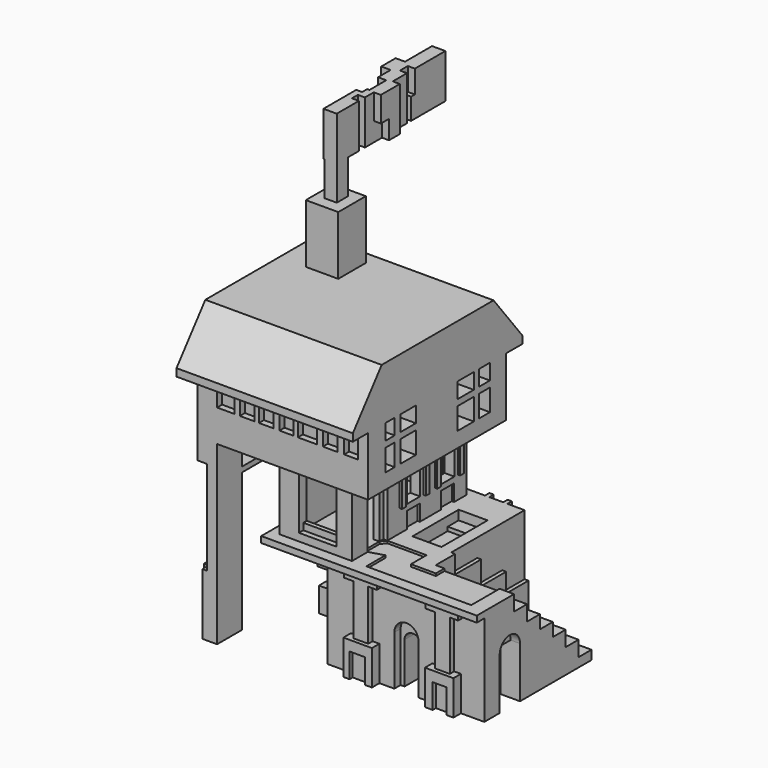
from build123d import *

# Parameters (mm, degrees)
F0_W       = 49.6544484049
F0_H       = 31.5617341548
F1_DEPTH   = 50.8
F3_DEPTH   = 25.4
F4_W       = 8.2422364503
F4_H       = 16.4844719693
F5_DEPTH   = 6.35
F6_W       = 4.0206033736
F6_H       = 14.2731410451
F7_DEPTH   = 44.451
F8_W       = 9.8504768685
F8_H       = 16.8865323067
F9_DEPTH   = 6.35
F10_W      = 4.498289439
F10_H      = 0.8041206747
F10_H_2    = 1.5077261487
F10_H_3    = 1.0051508434
F10_H_4    = 1.2061800808
F10_H_5    = 1.0051503778
F11_DEPTH  = 1.778
F12_DEPTH  = 2.286
F13_W      = 4.623694811
F13_H      = 9.0463566594
F14_DEPTH  = 6.35
F15_W      = 4.623694811
F15_H      = 2.0103026181
F15_H_2    = 1.8092714017
F16_DEPTH  = 2.54
F17_W      = 4.8514
F17_H      = 2.0103007555
F17_W_2    = 2.9986605556
F17_W_3    = 2.7925394444
F17_H_2    = 2.0103026181
F17_W_4    = 6.7549394444
F17_W_5    = 15.6923516317
F17_H_3    = 16.2889307812
F17_W_6    = 3.1051089239
F17_H_4    = 11.2522
F17_W_7    = 2.1844
F17_W_8    = 2.2098
F17_H_5    = 2.2113323212
F17_W_9    = 2.6860910761
F17_H_6    = 16.0879010782
F17_W_10   = 7.0675089239
F18_DEPTH  = 3.048
F20_DEPTH  = 1.27
F21_W      = 5.0257537514
F21_H      = 7.9406909645
F22_DEPTH  = 1.27
F23_W      = 4.422660917
F23_H      = 7.9406909645
F24_DEPTH  = 1.27
F25_W      = 3.2164826989
F25_H      = 2.0103007555
F25_W_2    = 4.4079935178
F25_W_3    = 15.8813819289
F25_H_2    = 6.6339960322
F25_W_4    = 3.618542105
F25_H_3    = 3.2164826989
F25_W_5    = 25.5780481543
F25_H_4    = 11.7602637038
F25_H_5    = 7.9406909645
F25_W_6    = 2.2113313898
F25_W_7    = 2.2113316227
F25_W_8    = 2.2113323212
F26_DEPTH  = 19.05
F27_W      = 14.3532268703
F27_H      = 21.6107424349
F28_DEPTH  = 28.9034002506
F29_W      = 12.5439558178
F29_H      = 7.9406909645
F30_DEPTH  = 31.1147325718
F31_W      = 2.3483865649
F31_H      = 21.6107424349
F32_DEPTH  = 28.9034002506
F33_W      = 7.8232
F33_H      = 16.0824116319
F34_DEPTH  = 2.54
F35_W      = 5.2832
F35_H      = 13.3690908551
F36_DEPTH  = 12.7
F38_DEPTH  = 1.27
F39_W      = 17.1194828197
F39_H      = 3.175
F40_DEPTH  = 25.4
F41_W      = 7.9231392592
F41_H      = 16.7392548174
F41_W_2    = 5.3848
F41_H_2    = 9.5307342708
F41_W_3    = 5.3969230503
F42_DEPTH  = 1.27
F43_DEPTH  = 4.572
F44_DEPTH  = 4.572
F45_W      = 1.4986
F45_H      = 1.8372498453
F45_H_2    = 2.9281172901
F45_H_3    = 2.4688038975
F45_H_4    = 2.2965632379
F45_H_5    = 2.0669065416
F45_H_6    = 2.7558747679
F45_H_7    = 2.4113897234
F45_H_8    = 2.4113915861
F45_H_9    = 2.6984605938
F45_H_10   = 1.9520781934
F45_H_11   = 2.813288942
F46_DEPTH  = 0.762
F47_W      = 5.3848
F47_H      = 2.1817311645
F47_W_2    = 5.3969230503
F47_W_3    = 5.2820940036
F47_H_2    = 5.2564423531
F47_H_3    = 5.3712707013
F47_W_4    = 5.5117495358
F47_H_4    = 15.3869669884
F48_DEPTH  = 0.762
F49_W      = 4.7153461103
F49_H      = 16.7392548174
F50_DEPTH  = 4.572
F51_W      = 23.4694828197
F51_H      = 55.8056919492
F52_DEPTH  = 19.05
F53_W      = 55.8056919492
F53_H      = 19.05
F54_DEPTH  = 12.7
F55_W      = 55.8056919492
F55_H      = 19.05
F56_DEPTH  = 19.05
F57_W      = 68.6690900475
F57_H      = 2.4308431178
F58_DEPTH  = 57.15
F59_W      = 10.5141848326
F59_H      = 11.1713211518
F60_DEPTH  = 19.05
F61_W      = 6.1911270022
F61_H      = 5.0784182519
F61_W_2    = 3.8099233061
F61_H_2    = 7.0634940997
F61_W_3    = 6.548307254
F61_W_4    = 4.5242845081
F62_DEPTH  = 57.151
F63_W      = 6.2733085334
F63_H      = 10.0599788129
F64_DEPTH  = 57.15
F65_W      = 6.2733085334
F65_H      = 1.42871961
F65_H_2    = 1.6668438911
F66_DEPTH  = 44.45
F67_W      = 6.2733085334
F67_H      = 5.9948527038
F68_DEPTH  = 44.45
F69_W      = 4.5242840424
F69_H      = 5.9530101717
F69_W_2    = 4.7624055296
F69_W_3    = 4.7624045983
F69_W_4    = 4.5242845081
F69_W_5    = 6.1911263037
F69_W_6    = 4.762403667
F69_W_7    = 5.7148858905
F70_DEPTH  = 2.032
F71_W      = 12.1441322844
F71_H      = 16.9065352529
F72_DEPTH  = 6.35
F73_W      = 12.1441322844
F73_H      = 2.1430850029
F74_DEPTH  = 1.778
F76_DEPTH  = 0.762
F77_W      = 12.3822530732
F77_H      = 18.3352567255
F78_DEPTH  = 25.4
F79_W      = 12.3822530732
F79_H      = 1.9049607217
F80_DEPTH  = 0.762
F81_W      = 7.8579680994
F81_H      = 5.2386447787
F81_W_2    = 8.3342082798
F81_W_3    = 7.3817297816
F81_H_2    = 8.8104493916
F82_DEPTH  = 25.4
F83_W      = 7.8579680994
F83_H      = 2.3812055588
F83_W_2    = 7.3817297816
F83_H_2    = 2.1430850029
F83_W_3    = 8.3342082798
F83_H_3    = 3.8099251688
F84_DEPTH  = 0.762
F85_W      = 1.9049616531
F85_H      = 7.0634940997
F85_W_2    = 2.1430840716
F86_DEPTH  = 6.35
F87_W      = 7.6198480092
F87_H      = 7.0634940997
F88_DEPTH  = 2.032
F89_W      = 1.4287228696
F89_H      = 4.2861625552
F89_W_2    = 1.1905999854
F89_H_2    = 4.7624073923
F90_DEPTH  = 2.032
F91_W      = 1.6668438911
F91_H      = 5.238648504
F92_DEPTH  = 2.286
F93_W      = 1.4700089008
F93_H      = 5.4767690599
F94_DEPTH  = 2.286
F95_W      = 5.0299894065
F95_H      = 30.4793948308
F96_DEPTH  = 3.048
F97_W      = 2.5149947032
F97_H      = 19.9257283583
F98_DEPTH  = 1.524
F99_W      = 4.0206033736
F99_H      = 4.5231785625
F100_DEPTH = 25.4
F101_W     = 43.9970307052
F101_H     = 14.2971799493
F102_DEPTH = 4.318
F103_W     = 2.43413914
F103_H     = 14.2971799493
F103_W_2   = 1.6654636711
F103_H_2   = 6.90305233
F104_DEPTH = 2.286
F105_W     = 4.3558273464
F105_H     = 6.1343833804
F106_DEPTH = 2.286
F107_W     = 1.9088529013
F107_H     = 2.0536798984
F108_DEPTH = 16.002
F109_W     = 5.8340346441
F109_H     = 14.2971799493
F110_DEPTH = 3.048
F111_W     = 9.3818865716
F111_H     = 4.2216335423
F111_H_2   = 4.422663711
F112_DEPTH = 3.048
F113_W     = 9.3818865716
F113_H     = 10.0515079685
F114_DEPTH = 4.318
F116_DEPTH = 3.048


with BuildPart() as f1:
    # F0 (on Right) → F1 (new body)
    with BuildSketch(Plane.YZ):
        with Locations((-5.663943477, 7.8401761129)):
            Rectangle(F0_W, F0_H)
    extrude(amount=F1_DEPTH)

    # F2 (on face) → F3 (cut)
    with BuildSketch(Plane.YZ.offset(50.8)):
        Polygon((19.1632807255, 23.6210431904), (-18.4293542989, 23.6210431904), (-18.4293542989, 18.6287942484), (-13.2025708444, 18.6287942484), (-13.2025708444, 13.6365453064), (-7.97578739, 13.6365453064), (-7.97578739, 9.3143971242), (-2.7490039356, 9.3143971242), (-2.7490039356, 4.992248942), (2.4777795188, 4.992248942), (2.4777795188, 0), (7.7045629732, 0), (7.7045629732, -4.992248942), (12.9313464276, -4.992248942), (12.9313464276, -7.9406909645), (19.1632807255, -7.9406909645), align=None)
    extrude(amount=-F3_DEPTH, mode=Mode.SUBTRACT)

    # F4 (on face) → F5 (cut)
    with BuildSketch(Plane.YZ.offset(50.8)):
        with Locations((-20.1381137595, 0.3015450202)):
            Rectangle(F4_W, F4_H)
    extrude(amount=-F5_DEPTH, mode=Mode.SUBTRACT)

    # F6 (on face) → F7 (cut, through all)
    with BuildSketch(Plane.YZ.offset(44.45)):
        with Locations((-20.0375998393, -0.8041204419)):
            Rectangle(F6_W, F6_H)
    extrude(amount=-F7_DEPTH, mode=Mode.SUBTRACT)

    # F8 (on face) → F9 (cut)
    with BuildSketch(Plane(origin=(0, 0, 0), x_dir=(0, -1, 0), z_dir=(-1, 0, 0))):
        with Locations((19.8668870144, 0.5025751889)):
            Rectangle(F8_W, F8_H)
    extrude(amount=-F9_DEPTH, mode=Mode.SUBTRACT)

    # F10 (on face) → F11 (join)
    with BuildSketch(Plane(origin=(0, 19.1632807255, 0), x_dir=(-1, 0, 0), z_dir=(0, 1, 0))):
        Polygon((-17.198289439, 23.6210431904), (-18.595289439, 23.6210431904), (-18.595289439, -7.9406909645), (-17.198289439, -7.9406909645), (-17.198289439, -1.5077261487), (-17.198289439, 0), (-17.198289439, 4.9252388999), (-17.198289439, 5.9303897433), (-17.198289439, 9.7499629483), (-17.198289439, 10.956143029), (-17.198289439, 14.5746869966), (-17.198289439, 15.5798373744), (-17.198289439, 19.1983804107), (-17.198289439, 20.0025010854), align=None)
        with Locations((-14.9491447195, 19.600440748)):
            Rectangle(F10_W, F10_H)
        Polygon((-12.7, 23.6210431904), (-12.7, 20.0025010854), (-12.7, 19.1983804107), (-12.7, 15.5798373744), (-12.7, 14.5746869966), (-12.7, 10.956143029), (-12.7, 9.7499629483), (-12.7, 5.9303897433), (-12.7, 4.9252388999), (-12.7, 0), (-12.7, -1.5077261487), (-12.7, -7.9406909645), (-11.303, -7.9406909645), (-11.303, 23.6210431904), align=None)
        with Locations((-14.9491447195, -0.7538630744)):
            Rectangle(F10_W, F10_H_2)
        with Locations((-14.9491447195, 5.4278143216)):
            Rectangle(F10_W, F10_H_3)
        with Locations((-14.9491447195, 10.3530529886)):
            Rectangle(F10_W, F10_H_4)
        with Locations((-14.9491447195, 15.0772621855)):
            Rectangle(F10_W, F10_H_5)
    extrude(amount=F11_DEPTH)

    # F12 (cut): faces of the model
    f12_faces = [f1.faces().sort_by_distance(p)[0] for p in [
        (14.9491447195, 19.1632807255, 17.3891088925),
        (14.9491447195, 19.1632807255, 12.7654150128),
        (14.9491447195, 19.1632807255, 7.8401763458),
        (14.9491447195, 19.1632807255, 2.4626194499),
        (14.9491447195, 19.1632807255, -4.7242085566),
    ]]
    extrude(f12_faces, amount=-F12_DEPTH, mode=Mode.SUBTRACT)

    # F13 (on face) → F14 (cut)
    with BuildSketch(Plane(origin=(0, 19.1632807255, 0), x_dir=(-1, 0, 0), z_dir=(0, 1, 0))):
        with Locations((-5.4278138559, 8.0412060488)):
            Rectangle(F13_W, F13_H)
    extrude(amount=-F14_DEPTH, mode=Mode.SUBTRACT)

    # F15 (on face) → F16 (cut)
    with BuildSketch(Plane(origin=(0, 19.1632807255, 0), x_dir=(-1, 0, 0), z_dir=(0, 1, 0))):
        with Locations((-5.4278138559, 13.5695356876)):
            Rectangle(F15_W, F15_H)
        with Locations((-5.4278138559, 2.6133920182)):
            Rectangle(F15_W, F15_H_2)
    extrude(amount=-F16_DEPTH, mode=Mode.SUBTRACT)

    # F17 (on face) → F18 (join)
    with BuildSketch(Plane.XZ.offset(30.4911676794)):
        with Locations((12.1793, 22.6158928126)):
            Rectangle(F17_W, F17_H)
        with Locations((8.2542697222, 22.6158928126)):
            Rectangle(F17_W_2, F17_H)
        with Locations((16.0012697222, 22.6158928126)):
            Rectangle(F17_W_3, F17_H)
        with Locations((12.1793, 20.6055911258)):
            Rectangle(F17_W, F17_H_2)
        with Locations((8.2542697222, 20.6055911258)):
            Rectangle(F17_W_2, F17_H_2)
        with Locations((3.3774697222, 22.6158928126)):
            Rectangle(F17_W_4, F17_H)
        with Locations((16.0012697222, 20.6055911258)):
            Rectangle(F17_W_3, F17_H_2)
        with Locations((25.2437152602, 22.6158928126)):
            Rectangle(F17_W_5, F17_H)
        with Locations((12.1793, 11.4559744261)):
            Rectangle(F17_W, F17_H_3)
        with Locations((34.642445538, 22.6158928126)):
            Rectangle(F17_W_6, F17_H)
        with Locations((12.1793, -2.3145909645)):
            Rectangle(F17_W, F17_H_4)
        with Locations((8.6614, -2.3145909645)):
            Rectangle(F17_W_7, F17_H_4)
        with Locations((15.7099, -2.3145909645)):
            Rectangle(F17_W_8, F17_H_4)
        with Locations((34.642445538, 20.5050762743)):
            Rectangle(F17_W_6, F17_H_5)
        with Locations((38.6207, 22.6158928126)):
            Rectangle(F17_W, F17_H)
        with Locations((38.6207, 20.5050762743)):
            Rectangle(F17_W, F17_H_5)
        with Locations((42.389445538, 22.6158928126)):
            Rectangle(F17_W_9, F17_H)
        with Locations((38.6207, 11.3554595746)):
            Rectangle(F17_W, F17_H_6)
        with Locations((42.389445538, 20.5050762743)):
            Rectangle(F17_W_9, F17_H_5)
        with Locations((47.266245538, 22.6158928126)):
            Rectangle(F17_W_10, F17_H)
        with Locations((38.6207, -2.3145909645)):
            Rectangle(F17_W, F17_H_4)
        with Locations((35.0901, -2.3145909645)):
            Rectangle(F17_W_8, F17_H_4)
        with Locations((42.1386, -2.3145909645)):
            Rectangle(F17_W_7, F17_H_4)
    extrude(amount=F18_DEPTH)

    # F19 (on face) → F20 (cut)
    with BuildSketch(Plane.XZ.offset(33.5391676794)):
        Polygon((17.3975394444, 21.6107424349), (6.7549394444, 21.6107424349), (6.7549394444, 19.6004398167), (9.7536, 19.6004398167), (9.7536, 3.3115090355), (14.605, 3.3115090355), (14.605, 19.6004398167), (17.3975394444, 19.6004398167), align=None)
        Polygon((43.7324910761, 21.6107424349), (33.0898910761, 21.6107424349), (33.0898910761, 19.3994101137), (36.195, 19.3994101137), (36.195, 3.3115090355), (41.0464, 3.3115090355), (41.0464, 19.3994101137), (43.7324910761, 19.3994101137), align=None)
    extrude(amount=-F20_DEPTH, mode=Mode.SUBTRACT)

    # F21 (on face) → F22 (cut)
    with BuildSketch(Plane.XZ.offset(33.5391676794)):
        with Locations((12.0822377503, -3.9703454822)):
            Rectangle(F21_W, F21_H)
    extrude(amount=-F22_DEPTH, mode=Mode.SUBTRACT)

    # F23 (on face) → F24 (cut)
    with BuildSketch(Plane.XZ.offset(33.5391676794)):
        with Locations((38.7187320739, -3.9703454822)):
            Rectangle(F23_W, F23_H)
    extrude(amount=-F24_DEPTH, mode=Mode.SUBTRACT)

    # F25 (on face) → F26 (join)
    with BuildSketch(Plane(origin=(0, 0, 0), x_dir=(0, -1, 0), z_dir=(-1, 0, 0))):
        with Locations((-13.1470458582, 22.6158928126)):
            Rectangle(F25_W, F25_H)
        with Locations((-16.9592839666, 22.6158928126)):
            Rectangle(F25_W_2, F25_H)
        with Locations((-3.5981135443, 22.6158928126)):
            Rectangle(F25_W_3, F25_H)
        with Locations((-13.1470458582, 18.2937444188)):
            Rectangle(F25_W, F25_H_2)
        with Locations((6.1518484727, 22.6158928126)):
            Rectangle(F25_W_4, F25_H)
        with Locations((-13.1470458582, 13.3685050532)):
            Rectangle(F25_W, F25_H_3)
        with Locations((-3.5981135443, 13.3685050532)):
            Rectangle(F25_W_3, F25_H_3)
        with Locations((6.1518484727, 18.2937444188)):
            Rectangle(F25_W_4, F25_H_2)
        with Locations((20.7501436023, 22.6158928126)):
            Rectangle(F25_W_5, F25_H)
        with Locations((-13.1470458582, 5.8801318519)):
            Rectangle(F25_W, F25_H_4)
        with Locations((6.1518484727, 13.3685050532)):
            Rectangle(F25_W_4, F25_H_3)
        with Locations((-13.1470458582, -3.9703454822)):
            Rectangle(F25_W, F25_H_5)
        with Locations((-15.8609529026, -3.9703454822)):
            Rectangle(F25_W_6, F25_H_5)
        with Locations((-10.4331388138, -3.9703454822)):
            Rectangle(F25_W_6, F25_H_5)
        with Locations((6.1518484727, 5.8801318519)):
            Rectangle(F25_W_4, F25_H_4)
        with Locations((6.1518484727, -3.9703454822)):
            Rectangle(F25_W_4, F25_H_5)
        with Locations((3.2369116088, -3.9703454822)):
            Rectangle(F25_W_7, F25_H_5)
        with Locations((9.0667856857, -3.9703454822)):
            Rectangle(F25_W_8, F25_H_5)
    extrude(amount=F26_DEPTH)

    # F27 (on face) → F28 (cut, through all)
    with BuildSketch(Plane.XZ.offset(7.9611195251)):
        with Locations((-7.1766134351, 10.8053712174)):
            Rectangle(F27_W, F27_H)
    extrude(amount=-F28_DEPTH, mode=Mode.SUBTRACT)

    # F29 (on face) → F30 (cut, through all)
    with BuildSketch(Plane.XZ.offset(10.1724518463)):
        with Locations((-6.2719779089, -3.9703454822)):
            Rectangle(F29_W, F29_H)
    extrude(amount=-F30_DEPTH, mode=Mode.SUBTRACT)

    # F31 (on face) → F32 (cut, through all)
    with BuildSketch(Plane.XZ.offset(7.9611195251)):
        with Locations((-17.8758067176, 10.8053712174)):
            Rectangle(F31_W, F31_H)
    extrude(amount=-F32_DEPTH, mode=Mode.SUBTRACT)

    # F33 (on face) → F34 (cut)
    with BuildSketch(Plane.XZ.offset(30.4911676794)):
        with Locations((25.5597489711, 0.1005148515)):
            Rectangle(F33_W, F33_H)
        with BuildLine():
            ThreePointArc((29.4713489711, 8.1417206675), (25.5597489711, 12.0533206675), (21.6481489711, 8.1417206675))
            Line((21.6481489711, 8.1417206675), (29.4713489711, 8.1417206675))
        make_face()
    extrude(amount=-F34_DEPTH, mode=Mode.SUBTRACT)

    # F35 (on face) → F36 (cut)
    with BuildSketch(Plane.XZ.offset(27.9511676794)):
        with Locations((25.5597489711, -1.2561455369)):
            Rectangle(F35_W, F35_H)
        with BuildLine():
            ThreePointArc((28.2013489711, 5.4283998906), (25.5597489711, 8.0699998906), (22.9181489711, 5.4283998906))
            Line((22.9181489711, 5.4283998906), (28.2013489711, 5.4283998906))
        make_face()
    extrude(amount=-F36_DEPTH, mode=Mode.SUBTRACT)

    # F37 (on face) → F38 (cut)
    with BuildSketch(Plane.YZ.offset(25.4)):
        Polygon((19.1632807255, 23.6210431904), (-10.5776749551, 23.6210431904), (-10.5776749551, 17.7780725062), (0, 17.7780725062), (0, 10.1592000574), (10.1202595979, 10.1592000574), (10.1202595979, 3.9371219464), (19.1632807255, 3.9371219464), align=None)
    extrude(amount=-F38_DEPTH, mode=Mode.SUBTRACT)

    # F39 (on face) → F40 (join)
    with BuildSketch(Plane.XY.offset(23.6210431904)):
        Polygon((4.2598964646, -26.7310177058), (4.2598964646, -29.9060177058), (7.4348964646, -29.9060177058), (7.4348964646, 16.5759822942), (4.2598964646, 16.5759822942), (4.2598964646, 13.4009822942), align=None)
        with Locations((-4.2998449452, -28.3185177058)):
            Rectangle(F39_W, F39_H)
        Polygon((-16.0345863551, -29.9060177058), (-12.8595863551, -29.9060177058), (-12.8595863551, -26.7310177058), (-12.8595863551, 13.4009822942), (-12.8595863551, 16.5759822942), (-16.0345863551, 16.5759822942), align=None)
        with Locations((-4.2998449452, 14.9884822942)):
            Rectangle(F39_W, F39_H)
    extrude(amount=F40_DEPTH)

    # F41 (on face) → F42 (cut)
    with BuildSketch(Plane.YZ.offset(7.4348964646)):
        with Locations((-19.5613363758, 31.990670599)):
            Rectangle(F41_W, F41_H)
        with Locations((-4.9842270213, 35.5949308723)):
            Rectangle(F41_W_2, F41_H_2)
        with Locations((8.9160362259, 35.5949308723)):
            Rectangle(F41_W_3, F41_H_2)
    extrude(amount=-F42_DEPTH, mode=Mode.SUBTRACT)

    # F43 (cut): a face of the model
    f43_faces = [f1.faces().sort_by_distance(p)[0] for p in [
        (6.1648964646, -4.9842270213, 35.5949308723),
    ]]
    extrude(f43_faces, amount=-F43_DEPTH, mode=Mode.SUBTRACT)

    # F44 (cut): a face of the model
    f44_faces = [f1.faces().sort_by_distance(p)[0] for p in [
        (6.1648964646, 8.9160362259, 35.5949308723),
    ]]
    extrude(f44_faces, amount=-F44_DEPTH, mode=Mode.SUBTRACT)

    # F45 (on face) → F46 (join)
    with BuildSketch(Plane.YZ.offset(7.4348964646)):
        with Locations((-9.7975270213, 39.4416730851)):
            Rectangle(F45_W, F45_H)
        with Locations((-9.7975270213, 37.0589895174)):
            Rectangle(F45_W, F45_H_2)
        with Locations((-9.7975270213, 34.3605289236)):
            Rectangle(F45_W, F45_H_3)
        with Locations((-9.7975270213, 31.9778453559)):
            Rectangle(F45_W, F45_H_4)
        with Locations((-0.1709270213, 39.3268447369)):
            Rectangle(F45_W, F45_H_5)
        with Locations((-0.1709270213, 36.9154540822)):
            Rectangle(F45_W, F45_H_6)
        with Locations((-0.1709270213, 34.3318218365)):
            Rectangle(F45_W, F45_H_7)
        with Locations((-0.1709270213, 31.9204311818)):
            Rectangle(F45_W, F45_H_8)
        with Locations((4.4348218956, 39.3268447369)):
            Rectangle(F45_W, F45_H_5)
        with Locations((4.4348218956, 36.9441611692)):
            Rectangle(F45_W, F45_H_9)
        with Locations((4.4348218956, 34.2457005754)):
            Rectangle(F45_W, F45_H_9)
        with Locations((4.4348218956, 31.8630170077)):
            Rectangle(F45_W, F45_H_5)
        with Locations((13.735397751, 39.384258911)):
            Rectangle(F45_W, F45_H_10)
        with Locations((13.735397751, 37.0015753433)):
            Rectangle(F45_W, F45_H_11)
        with Locations((13.735397751, 34.3605289236)):
            Rectangle(F45_W, F45_H_3)
        with Locations((13.735397751, 31.9778453559)):
            Rectangle(F45_W, F45_H_4)
    extrude(amount=F46_DEPTH)

    # F47 (on face) → F48 (cut)
    with BuildSketch(Plane.YZ.offset(7.4348964646)):
        with Locations((-4.9842270213, 41.45116359)):
            Rectangle(F47_W, F47_H)
        with Locations((8.9160362259, 41.45116359)):
            Rectangle(F47_W_2, F47_H)
        with Locations((-5.0355800195, 26.2492643669)):
            Rectangle(F47_W_3, F47_H_2)
        with Locations((8.8586217025, 26.306678541)):
            Rectangle(F47_W_3, F47_H_3)
        with Locations((-19.6187514812, 31.4037026837)):
            Rectangle(F47_W_4, F47_H_4)
    extrude(amount=-F48_DEPTH, mode=Mode.SUBTRACT)

    # F49 (on face) → F50 (cut)
    with BuildSketch(Plane.YZ.offset(6.1648964646)):
        with Locations((-19.5576398013, 31.990670599)):
            Rectangle(F49_W, F49_H)
    extrude(amount=-F50_DEPTH, mode=Mode.SUBTRACT)

    # F51 (on face) → F52 (join)
    with BuildSketch(Plane.XY.offset(49.0210431904)):
        with Locations((-4.2998449452, -11.3268636804)):
            Rectangle(F51_W, F51_H)
    extrude(amount=F52_DEPTH)

    # F53 (on face) → F54 (join)
    with BuildSketch(Plane.YZ.offset(7.4348964646)):
        with Locations((-11.3268636804, 58.5460431904)):
            Rectangle(F53_W, F53_H)
    extrude(amount=F54_DEPTH)

    # F55 (on face) → F56 (join)
    with BuildSketch(Plane(origin=(-16.0345863551, 0, 0), x_dir=(0, -1, 0), z_dir=(-1, 0, 0))):
        with Locations((11.3268636804, 58.5460431904)):
            Rectangle(F55_W, F55_H)
    extrude(amount=F56_DEPTH)

    # F57 (on face) → F58 (join)
    with BuildSketch(Plane.YZ.offset(20.1348964646)):
        with Locations((-11.0738640651, 69.2864647493)):
            Rectangle(F57_W, F57_H)
        Polygon((-33.7351057678, 85.2678269148), (-45.4084090889, 70.5018863082), (23.2606809586, 70.5018863082), (11.5873776376, 85.2678269148), align=None)
    extrude(amount=-F58_DEPTH)

    # F59 (on face) → F60 (join)
    with BuildSketch(Plane.XY.offset(85.2678269148)):
        with Locations((-23.1640618294, 1.8071254017)):
            Rectangle(F59_W, F59_H)
    extrude(amount=F60_DEPTH)

    # F61 (on face) → F62 (cut, through all)
    with BuildSketch(Plane.YZ.offset(20.1348964646)):
        with Locations((-22.9786038399, 65.5318340644)):
            Rectangle(F61_W, F61_H)
        with Locations((-30.3603326902, 57.4758020408)):
            Rectangle(F61_W_2, F61_H_2)
        with Locations((-22.9786038399, 57.4758020408)):
            Rectangle(F61_W, F61_H_2)
        with Locations((0.2976497053, 65.5318340644)):
            Rectangle(F61_W_3, F61_H)
        with Locations((7.8579683322, 65.5318340644)):
            Rectangle(F61_W_4, F61_H)
        with Locations((0.2976497053, 57.4758020408)):
            Rectangle(F61_W_3, F61_H_2)
        with Locations((7.8579683322, 57.4758020408)):
            Rectangle(F61_W_4, F61_H_2)
        with Locations((-30.3603326902, 65.5318340644)):
            Rectangle(F61_W_2, F61_H)
    extrude(amount=-F62_DEPTH, mode=Mode.SUBTRACT)

    # F63 (on face) → F64 (join)
    with BuildSketch(Plane(origin=(0, 0, 49.0210431904), x_dir=(1, 0, 0), z_dir=(0, 0, -1))):
        with Locations((-31.9479320884, 34.1997202486)):
            Rectangle(F63_W, F63_H)
    extrude(amount=F64_DEPTH)

    # F65 (on face) → F66 (join)
    with BuildSketch(Plane(origin=(0, -29.1697308421, 0), x_dir=(-1, 0, 0), z_dir=(0, 1, 0))):
        with Locations((31.9479320884, 44.8954869062)):
            Rectangle(F65_W, F65_H)
        with Locations((31.9479320884, 37.6328192651)):
            Rectangle(F65_W, F65_H_2)
    extrude(amount=F66_DEPTH)

    # F67 (on face) → F68 (join)
    with BuildSketch(Plane(origin=(0, 0, 36.7993973196), x_dir=(1, 0, 0), z_dir=(0, 0, -1))):
        with Locations((-31.9479320884, -12.282842806)):
            Rectangle(F67_W, F67_H)
    extrude(amount=F68_DEPTH)

    # F69 (on face) → F70 (cut)
    with BuildSketch(Plane.XZ.offset(39.229709655)):
        with Locations((14.6456691436, 62.3973254114)):
            Rectangle(F69_W, F69_H)
        with Locations((-19.0483471379, 62.3973254114)):
            Rectangle(F69_W_2, F69_H)
        with Locations((-12.8572206013, 62.3973254114)):
            Rectangle(F69_W_3, F69_H)
        with Locations((-6.3089134637, 62.3973254114)):
            Rectangle(F69_W_4, F69_H)
        with Locations((0.4775136476, 62.3973254114)):
            Rectangle(F69_W_5, F69_H)
        with Locations((7.8592412174, 62.3973254114)):
            Rectangle(F69_W_6, F69_H)
        with Locations((-25.9538348764, 62.3973254114)):
            Rectangle(F69_W_7, F69_H)
    extrude(amount=-F70_DEPTH, mode=Mode.SUBTRACT)

    # F71 (on face) → F72 (cut)
    with BuildSketch(Plane.XZ.offset(29.9060177058)):
        with Locations((-3.6895904923, 36.6803379729)):
            Rectangle(F71_W, F71_H)
    extrude(amount=-F72_DEPTH, mode=Mode.SUBTRACT)

    # F73 (on face) → F74 (cut)
    with BuildSketch(Plane.XZ.offset(29.9060177058)):
        with Locations((-3.6895904923, 27.155527845)):
            Rectangle(F73_W, F73_H)
        with Locations((-3.6895904923, 46.2051481009)):
            Rectangle(F73_W, F73_H)
    extrude(amount=-F74_DEPTH, mode=Mode.SUBTRACT)

    # F75 (on face) → F76 (cut)
    with BuildSketch(Plane.XY.offset(23.6210431904)):
        Polygon((46.099819243, -29.9060177058), (46.099819243, -18.4293542989), (28.2519180328, -18.4293542989), (28.2519180328, -21.9153128564), (20.1698448509, -21.9153128564), (20.1698448509, -15.5997667462), (12.4245304614, -15.5997667462), (7.4348964646, -15.5997667462), (6.1648964646, -17.1999667462), (6.1648964646, -21.9153128564), (7.4348964646, -23.5229060054), (12.087771669, -22.1439097077), (12.087771669, -29.9060177058), align=None)
    extrude(amount=-F76_DEPTH, mode=Mode.SUBTRACT)

    # F77 (on face) → F78 (cut)
    with BuildSketch(Plane(origin=(0, 16.5759822942, 0), x_dir=(-1, 0, 0), z_dir=(0, 1, 0))):
        with Locations((3.9289840497, 37.6328174025)):
            Rectangle(F77_W, F77_H)
    extrude(amount=-F78_DEPTH, mode=Mode.SUBTRACT)

    # F79 (on face) → F80 (cut)
    with BuildSketch(Plane(origin=(0, 16.5759822942, 0), x_dir=(-1, 0, 0), z_dir=(0, 1, 0))):
        with Locations((3.9289840497, 27.5127086788)):
            Rectangle(F79_W, F79_H)
    extrude(amount=-F80_DEPTH, mode=Mode.SUBTRACT)

    # F81 (on face) → F82 (cut)
    with BuildSketch(Plane(origin=(0, 16.5759822942, 0), x_dir=(-1, 0, 0), z_dir=(0, 1, 0))):
        with Locations((-9.7629302181, 61.8020258844)):
            Rectangle(F81_W, F81_H)
        with Locations((26.4313500375, 61.8020258844)):
            Rectangle(F81_W_2, F81_H)
        with Locations((7.8579680994, 59.7780030221)):
            Rectangle(F81_W_3, F81_H_2)
    extrude(amount=-F82_DEPTH, mode=Mode.SUBTRACT)

    # F83 (on face) → F84 (cut)
    with BuildSketch(Plane(origin=(0, 16.5759822942, 0), x_dir=(-1, 0, 0), z_dir=(0, 1, 0))):
        with Locations((-9.7629302181, 57.9921007156)):
            Rectangle(F83_W, F83_H)
        with Locations((7.8579680994, 54.3012358248)):
            Rectangle(F83_W_2, F83_H_2)
        with Locations((26.4313500375, 57.2777409106)):
            Rectangle(F83_W_3, F83_H_3)
    extrude(amount=-F84_DEPTH, mode=Mode.SUBTRACT)

    # F85 (on face) → F86 (join)
    with BuildSketch(Plane(origin=(-35.0845863551, 0, 0), x_dir=(0, -1, 0), z_dir=(-1, 0, 0))):
        with Locations((6.3101863489, 57.4758020408)):
            Rectangle(F85_W, F85_H)
        Polygon((7.2626671754, 53.944054991), (5.3577055223, 53.944054991), (5.3577055223, 51.8009737134), (17.0255992562, 51.8009737134), (17.0255992562, 53.944054991), (14.8825151846, 53.944054991), align=None)
        with Locations((15.9540572204, 57.4758020408)):
            Rectangle(F85_W_2, F85_H)
    extrude(amount=F86_DEPTH)

    # F87 (on face) → F88 (join)
    with BuildSketch(Plane(origin=(-41.4345863551, 0, 0), x_dir=(0, -1, 0), z_dir=(-1, 0, 0))):
        with Locations((11.07259118, 57.4758020408)):
            Rectangle(F87_W, F87_H)
    extrude(amount=-F88_DEPTH)

    # F89 (on face) → F90 (cut)
    with BuildSketch(Plane(origin=(-41.4345863551, 0, 0), x_dir=(0, -1, 0), z_dir=(-1, 0, 0))):
        with Locations((8.2151491661, 56.5633773804)):
            Rectangle(F89_W, F89_H)
        with Locations((14.2872151919, 56.8014997989)):
            Rectangle(F89_W_2, F89_H_2)
    extrude(amount=-F90_DEPTH, mode=Mode.SUBTRACT)

    # F91 (on face) → F92 (cut)
    with BuildSketch(Plane.XZ.offset(17.0255992562)):
        with Locations((-38.8136021793, 56.3252586871)):
            Rectangle(F91_W, F91_H)
    extrude(amount=-F92_DEPTH, mode=Mode.SUBTRACT)

    # F93 (on face) → F94 (cut)
    with BuildSketch(Plane(origin=(0, -5.3577055223, 0), x_dir=(-1, 0, 0), z_dir=(0, 1, 0))):
        with Locations((37.5245819047, 56.4443189651)):
            Rectangle(F93_W, F93_H)
    extrude(amount=-F94_DEPTH, mode=Mode.SUBTRACT)

    # F95 (on face) → F96 (cut)
    with BuildSketch(Plane(origin=(-35.0845863551, 0, 0), x_dir=(0, -1, 0), z_dir=(-1, 0, 0))):
        with Locations((36.7147149518, 27.0364689641)):
            Rectangle(F95_W, F95_H)
    extrude(amount=-F96_DEPTH, mode=Mode.SUBTRACT)

    # F97 (on face) → F98 (cut)
    with BuildSketch(Plane(origin=(-35.0845863551, 0, 0), x_dir=(0, -1, 0), z_dir=(-1, 0, 0))):
        with Locations((37.9722123034, 1.8339073695)):
            Rectangle(F97_W, F97_H)
    extrude(amount=-F98_DEPTH, mode=Mode.SUBTRACT)

    # F99 (on face) → F100 (join)
    with BuildSketch(Plane.XY.offset(104.3178269148)):
        with Locations((-23.420012556, 2.2615892813)):
            Rectangle(F99_W, F99_H)
    extrude(amount=F100_DEPTH)

    # F101 (on face) → F102 (join)
    with BuildSketch(Plane.YZ.offset(-21.4097108692)):
        with Locations((21.9985153526, 122.5692369401)):
            Rectangle(F101_W, F101_H)
    extrude(amount=-F102_DEPTH)

    # F103 (on face) → F104 (cut)
    with BuildSketch(Plane.YZ.offset(-21.4097108692)):
        with Locations((10.1888054051, 122.5692369401)):
            Rectangle(F103_W, F103_H)
        Polygon((31.6476598382, 129.7178269148), (28.4448452294, 129.7178269148), (28.4448452294, 122.3236992955), (30.1103089005, 122.3236992955), (31.6476598382, 122.3236992955), align=None)
        with Locations((29.2775770649, 118.8721731305)):
            Rectangle(F103_W_2, F103_H_2)
    extrude(amount=-F104_DEPTH, mode=Mode.SUBTRACT)

    # F105 (on face) → F106 (join)
    with BuildSketch(Plane.YZ.offset(-21.4097108692)):
        Polygon((22.6797815412, 129.7178269148), (14.9930259213, 129.7178269148), (14.9930259213, 121.5550303459), (18.3239541948, 121.5550303459), (22.6797815412, 121.5550303459), align=None)
        with Locations((20.501867868, 118.4878386557)):
            Rectangle(F105_W, F105_H)
    extrude(amount=F106_DEPTH)

    # F107 (on face) → F108 (cut)
    with BuildSketch(Plane.XY.offset(129.7178269148)):
        with Locations((-24.7732844185, 14.3197337165)):
            Rectangle(F107_W, F107_H)
        Polygon((-25.7277108692, 22.129939869), (-25.7277108692, 15.3465736657), (-23.8188579679, 15.3465736657), (-23.0720657855, 15.3465736657), (-23.0720657855, 22.129939869), align=None)
    extrude(amount=-F108_DEPTH, mode=Mode.SUBTRACT)

    # F109 (on face) → F110 (join)
    with BuildSketch(Plane(origin=(-25.7277108692, 0, 0), x_dir=(0, -1, 0), z_dir=(-1, 0, 0))):
        with Locations((-30.1464679651, 122.5692369401)):
            Rectangle(F109_W, F109_H)
    extrude(amount=F110_DEPTH)

    # F111 (on face) → F112 (cut)
    with BuildSketch(Plane.XY.offset(23.6210431904)):
        with Locations((15.6259015203, -7.6391461771)):
            Rectangle(F111_W, F111_H)
        with Locations((15.6259015203, 6.734510418)):
            Rectangle(F111_W, F111_H_2)
    extrude(amount=-F112_DEPTH, mode=Mode.SUBTRACT)

    # F113 (on face) → F114 (cut)
    with BuildSketch(Plane.XY.offset(23.6210431904)):
        with Locations((15.6259015203, -0.5025754217)):
            Rectangle(F113_W, F113_H)
    extrude(amount=-F114_DEPTH, mode=Mode.SUBTRACT)

    # F115 (on face) → F116 (cut)
    with BuildSketch(Plane.YZ.offset(50.8)):
        with BuildLine():
            Line((-24.2592319846, 8.5437810048), (-16.0169955343, 8.5437810048))
            ThreePointArc((-16.0169955343, 8.5437810048), (-20.1381137595, 12.66489923), (-24.2592319846, 8.5437810048))
        make_face()
    extrude(amount=-F116_DEPTH, mode=Mode.SUBTRACT)


solid = f1.part
